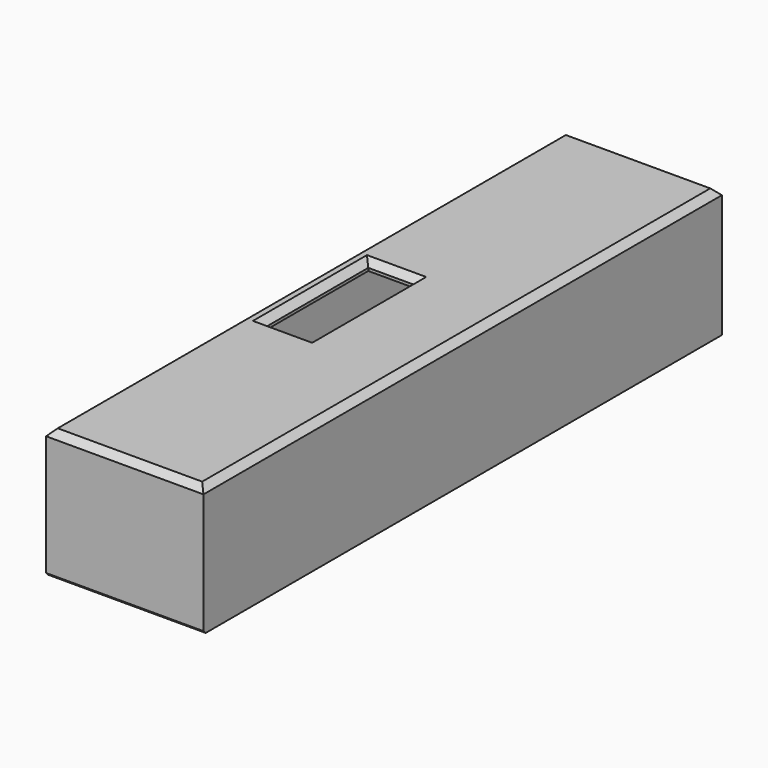
from build123d import *

# Parameters (mm, degrees)
BOX003_W          = 12
BOX003_H          = 9
BOX003_DEPTH      = 9
CYLINDER002_R     = 4.5
CYLINDER002_DEPTH = 12
CYLINDER003_R     = 4.5
CYLINDER003_DEPTH = 12
BOX002_W          = 5
BOX002_H          = 14
BOX002_DEPTH      = 11
BOX_W             = 15.2
BOX_H             = 68.2
BOX_DEPTH         = 18
BOX001_W          = 17
BOX001_H          = 70
BOX001_DEPTH      = 14
CHAMFER_SIZE      = 0.7
CHAMFER001_SIZE   = 0.7
CHAMFER005_SIZE   = 0.3


with BuildPart() as cubo002:
    # Box003 → Box003 (new body)
    with BuildSketch(Plane(origin=(-8, 8, -2), x_dir=(1, 0, 0), z_dir=(0, 0, 1))):
        with Locations((6, 4.5)):
            Rectangle(BOX003_W, BOX003_H)
    extrude(amount=BOX003_DEPTH)


with BuildPart() as cilindro001:
    # Cylinder002 → Cylinder002 (new body)
    with BuildSketch(Plane(origin=(-8, 8, 2.5), x_dir=(0, 0, -1), z_dir=(1, 0, 0))):
        Circle(CYLINDER002_R)
    extrude(amount=CYLINDER002_DEPTH)


with BuildPart() as fusion:
    # Cylinder003 → Cylinder003 (new body)
    with BuildSketch(Plane(origin=(-8, 17, 2.5), x_dir=(0, 0, -1), z_dir=(1, 0, 0))):
        Circle(CYLINDER003_R)
    extrude(amount=CYLINDER003_DEPTH)

    # Fusion: union Cilindro001
    add(cilindro001.part)


with BuildPart() as cubo001:
    # Box002 → Box002 (new body)
    with BuildSketch(Plane(origin=(1, 26, 2), x_dir=(1, 0, 0), z_dir=(0, 0, 1))):
        with Locations((2.5, 7)):
            Rectangle(BOX002_W, BOX002_H)
    extrude(amount=BOX002_DEPTH)


with BuildPart() as foroslot:
    # Box → Box (new body)
    with BuildSketch(Plane(origin=(-0.1, -0.1, -9), x_dir=(1, 0, 0), z_dir=(0, 0, 1))):
        with Locations((7.6, 34.1)):
            Rectangle(BOX_W, BOX_H)
    extrude(amount=BOX_DEPTH)


with BuildPart() as chamfer005:
    # Box001 → Box001 (new body)
    with BuildSketch(Plane(origin=(-1, -1, -4), x_dir=(1, 0, 0), z_dir=(0, 0, 1))):
        with Locations((8.5, 35)):
            Rectangle(BOX001_W, BOX001_H)
    extrude(amount=BOX001_DEPTH)

    # Cut: cut foroSlot
    add(foroslot.part, mode=Mode.SUBTRACT)

    # Cut001: cut Cubo001
    add(cubo001.part, mode=Mode.SUBTRACT)

    # Chamfer
    chamfer_edges = [chamfer005.edges().sort_by_distance(p)[0] for p in [
        (3.5, 26, 10),
        (6, 33, 10),
        (3.5, 40, 10),
        (1, 33, 10),
    ]]
    chamfer(chamfer_edges, length=CHAMFER_SIZE)

    # Chamfer001
    chamfer001_edges = [chamfer005.edges().sort_by_distance(p)[0] for p in [
        (-1, 34, 10),
        (7.5, -1, 10),
        (16, 34, 10),
        (7.5, 69, 10),
    ]]
    chamfer(chamfer001_edges, length=CHAMFER001_SIZE)

    # Cut002: cut Fusion
    add(fusion.part, mode=Mode.SUBTRACT)

    # Cut005: cut Cubo002
    add(cubo002.part, mode=Mode.SUBTRACT)

    # Chamfer005
    chamfer005_edges = [chamfer005.edges().sort_by_distance(p)[0] for p in [
        (7.5, -1, -4),
    ]]
    chamfer(chamfer005_edges, length=CHAMFER005_SIZE)


solid = chamfer005.part
